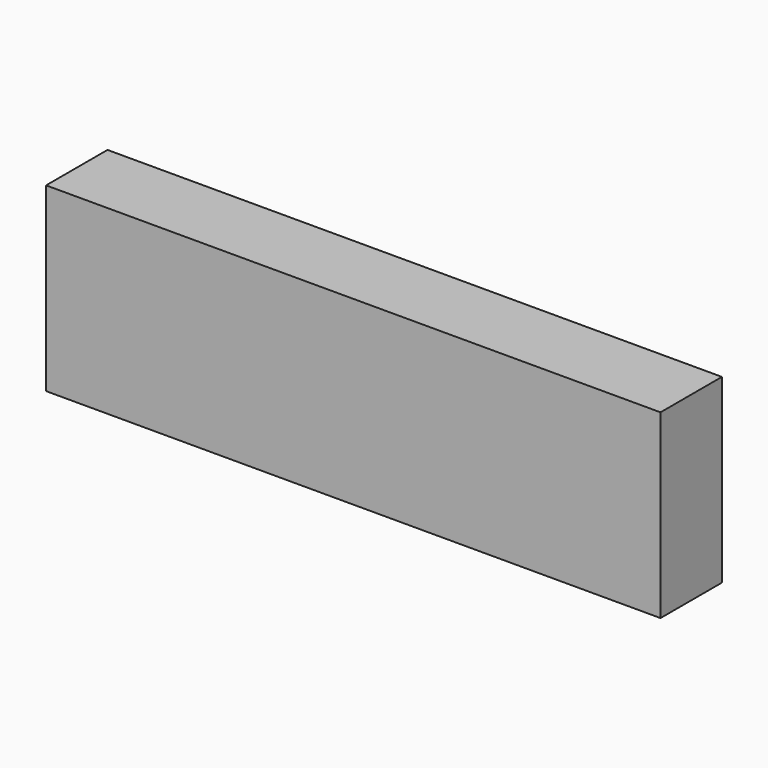
from build123d import *

# Parameters (mm, degrees)
F0_W     = 203.27735
F0_H     = 59.93405
F1_DEPTH = 25.4


with BuildPart() as f1:
    # F0 (on Front) → F1 (new body)
    with BuildSketch(Plane.XZ):
        Rectangle(F0_W, F0_H)
        Rectangle(F0_W, F0_H)
    extrude(amount=F1_DEPTH)


solid = f1.part
